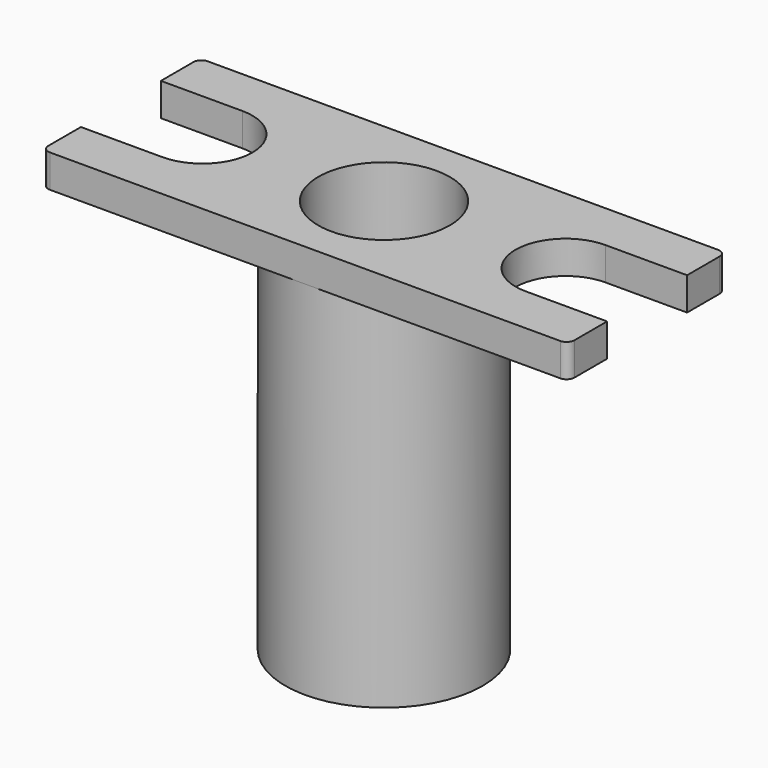
from build123d import *

# Parameters (mm, degrees)
F1_DEPTH = 6.35
F2_R     = 19.05
F3_DEPTH = 69.85
F4_R     = 12.7
F4_R_2   = 4.7625
F5_DEPTH = 50.8
F6_DEPTH = 76.201
F7_R     = 1.524


with BuildPart() as f1:
    # F0 (on Top) → F1 (new body)
    with BuildSketch(Plane.XY):
        with BuildLine():
            Line((0, 9.398), (0, 0))
            Line((0, 0), (101.6, 0))
            Line((101.6, 0), (101.6, 9.398))
            Line((101.6, 9.398), (85.852, 9.398))
            ThreePointArc((85.852, 9.398), (76.2, 19.05), (85.852, 28.702))
            Line((85.852, 28.702), (101.6, 28.702))
            Line((101.6, 28.702), (101.6, 38.1))
            Line((101.6, 38.1), (0, 38.1))
            Line((0, 38.1), (0, 28.702))
            Line((0, 28.702), (15.748, 28.702))
            ThreePointArc((15.748, 28.702), (25.4, 19.05), (15.748, 9.398))
            Line((15.748, 9.398), (0, 9.398))
        make_face()
    extrude(amount=F1_DEPTH)

    # F2 (on face) → F3 (join)
    with BuildSketch(Plane(origin=(0, 0, 0), x_dir=(1, 0, 0), z_dir=(0, 0, -1))):
        with Locations((50.8, -19.05)):
            Circle(F2_R)
    extrude(amount=F3_DEPTH)

    # F4 (on face) → F5 (cut)
    with BuildSketch(Plane.XY.offset(6.35)):
        with Locations((50.8, 19.05)):
            Circle(F4_R)
        with Locations((50.8, 19.05)):
            Circle(F4_R_2, mode=Mode.SUBTRACT)
    extrude(amount=-F5_DEPTH, mode=Mode.SUBTRACT)

    # F4 (on face) → F6 (cut, through all)
    with BuildSketch(Plane.XY.offset(6.35)):
        with Locations((50.8, 19.05)):
            Circle(F4_R_2)
    extrude(amount=-F6_DEPTH, mode=Mode.SUBTRACT)

    # F7
    f7_edges = [f1.edges().sort_by_distance(p)[0] for p in [
        (0, 38.1, 3.175),
        (0, 0, 3.175),
        (101.6, 0, 3.175),
        (101.6, 38.1, 3.175),
    ]]
    fillet(f7_edges, radius=F7_R)


solid = f1.part
